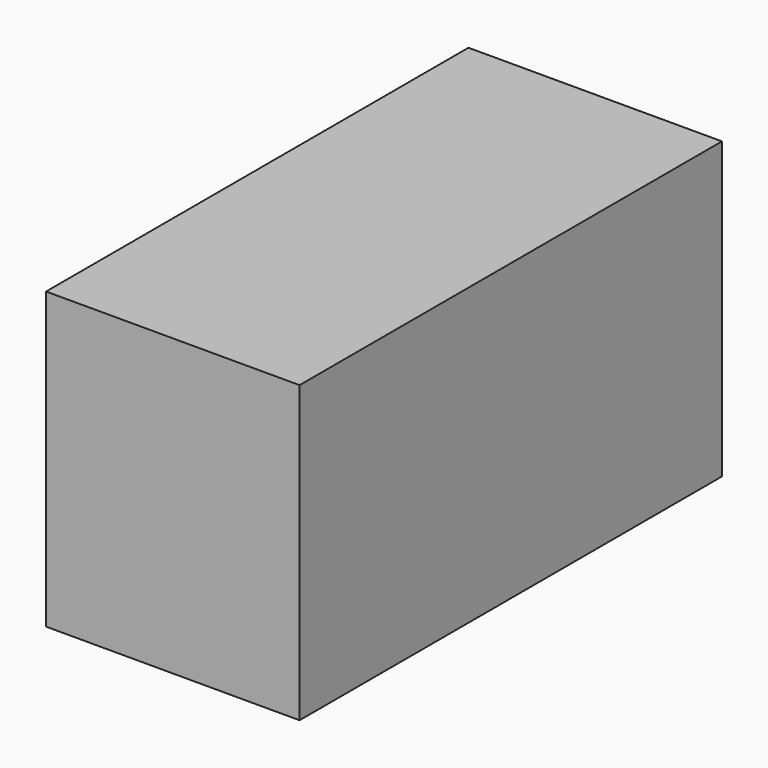
from build123d import *

# Parameters (mm, degrees)
F0_W     = 128.042623
F0_H     = 123.641148
F1_DEPTH = 266.7
F2_W     = 128.042623
F2_H     = 266.7
F3_DEPTH = 25.4


with BuildPart() as f1:
    # F0 (on Front) → F1 (new body)
    with BuildSketch(Plane.XZ):
        with Locations((1.141272, -0.176128)):
            Rectangle(F0_W, F0_H)
    extrude(amount=-F1_DEPTH)

    # F2 (on face) → F3 (join)
    with BuildSketch(Plane(origin=(0, 0, -61.996702), x_dir=(1, 0, 0), z_dir=(0, 0, -1))):
        with Locations((1.141272, -133.35)):
            Rectangle(F2_W, F2_H)
    extrude(amount=F3_DEPTH)


solid = f1.part
